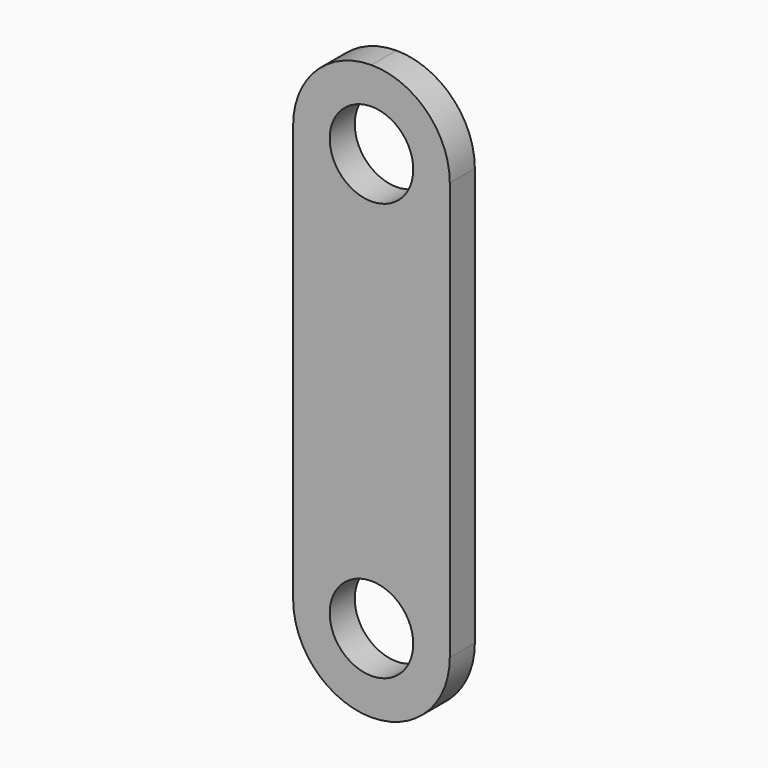
from build123d import *

# Parameters (mm, degrees)
F0_R     = 101.6
F1_DEPTH = 76.2


with BuildPart() as f1:
    # F0 (on Front) → F1 (new body)
    with BuildSketch(Plane.XZ):
        with BuildLine():
            Line((-190.5, 1016), (-190.5, 0))
            ThreePointArc((-190.5, 0), (-134.703842, -134.703842), (0, -190.5))
            ThreePointArc((0, -190.5), (134.703842, -134.703842), (190.5, 0))
            Line((190.5, 0), (190.5, 1016))
            ThreePointArc((190.5, 1016), (134.703842, 1150.703842), (0, 1206.5))
            ThreePointArc((0, 1206.5), (-134.703842, 1150.703842), (-190.5, 1016))
        make_face()
        Circle(F0_R, mode=Mode.SUBTRACT)
        with Locations((0, 1016)):
            Circle(F0_R, mode=Mode.SUBTRACT)
    extrude(amount=F1_DEPTH)


solid = f1.part
